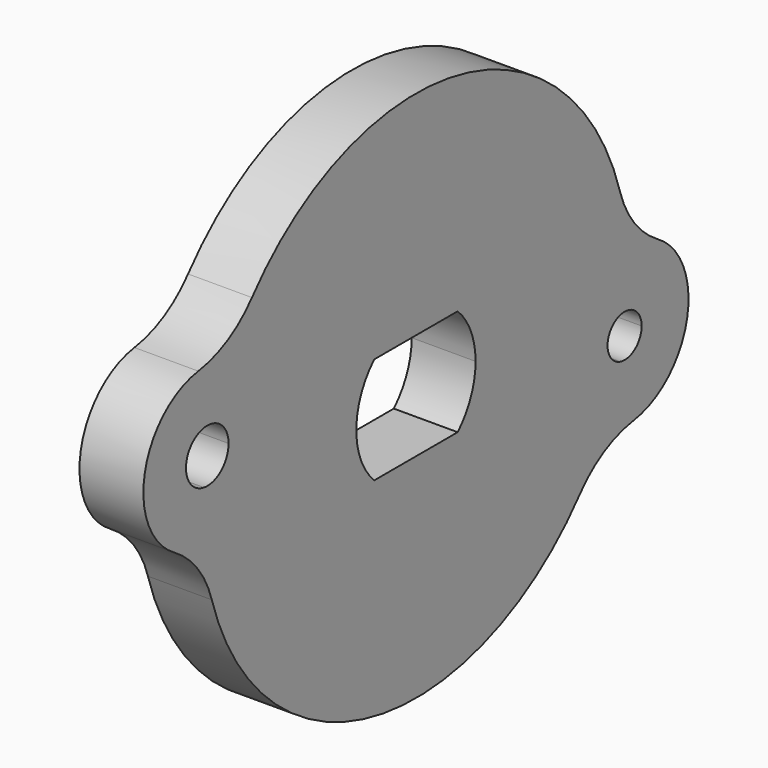
from build123d import *

# Parameters (mm, degrees)
F1_DEPTH = 6
F2_R     = 10


with BuildPart() as f1:
    # F0 (on Right) → F1 (new body)
    with BuildSketch(Plane.YZ):
        with BuildLine():
            ThreePointArc((21.9095980486, -12.040328623), (17.1464281995, -3.5), (24.8756560386, 2.490328623))
            ThreePointArc((24.8756560386, 2.490328623), (5, 24.4948974278), (-21.9095980486, 12.040328623))
            ThreePointArc((-21.9095980486, 12.040328623), (-18.3451110354, 9.2930324163), (-16.9948974278, 5))
            ThreePointArc((-16.9948974278, 5), (-19.3279684357, -0.4362528262), (-24.8756560386, -2.490328623))
            ThreePointArc((-24.8756560386, -2.490328623), (-5, -24.4948974278), (21.9095980486, -12.040328623))
        make_face()
        with BuildLine():
            ThreePointArc((4.8989794856, 5), (6.4534043883, 2.7117470016), (7, 0))
            ThreePointArc((7, 0), (6.4534043883, -2.7117470016), (4.8989794856, -5))
            ThreePointArc((4.8989794856, -5), (0, -7), (-4.8989794856, -5))
            ThreePointArc((-4.8989794856, -5), (-7, 0), (-4.8989794856, 5))
            ThreePointArc((-4.8989794856, 5), (0, 7), (4.8989794856, 5))
        make_face(mode=Mode.SUBTRACT)
        with BuildLine():
            ThreePointArc((-16.9948974278, 5), (-18.3451110354, 9.2930324163), (-21.9095980486, 12.040328623))
            ThreePointArc((-21.9095980486, 12.040328623), (-23.007525787, 9.7802738796), (-23.8730483318, 7.4214259645))
            ThreePointArc((-23.8730483318, 7.4214259645), (-22.5194705448, 6.5322169004), (-21.9948974278, 5))
            ThreePointArc((-21.9948974278, 5), (-22.8658256529, 3.1036547909), (-24.8717975496, 2.5285740355))
            ThreePointArc((-24.8717975496, 2.5285740355), (-24.999992612, 0.0192197783), (-24.8756560386, -2.490328623))
            ThreePointArc((-24.8756560386, -2.490328623), (-19.3279684357, -0.4362528262), (-16.9948974278, 5))
        make_face()
        with BuildLine():
            ThreePointArc((-23.8730483318, 7.4214259645), (-23.007525787, 9.7802738796), (-21.9095980486, 12.040328623))
            ThreePointArc((-21.9095980486, 12.040328623), (-31.8433666562, 6.5), (-24.8756560386, -2.490328623))
            ThreePointArc((-24.8756560386, -2.490328623), (-24.999992612, 0.0192197783), (-24.8717975496, 2.5285740355))
            ThreePointArc((-24.8717975496, 2.5285740355), (-26.9443871706, 5.5), (-23.8730483318, 7.4214259645))
        make_face()
        with BuildLine():
            ThreePointArc((-4.8989794856, -5), (0, -7), (4.8989794856, -5))
            Line((4.8989794856, -5), (-4.8989794856, -5))
        make_face()
        with BuildLine():
            Line((-4.8989794856, 5), (4.8989794856, 5))
            ThreePointArc((4.8989794856, 5), (0, 7), (-4.8989794856, 5))
        make_face()
        with BuildLine():
            ThreePointArc((24.8756560386, 2.490328623), (24.9688946588, 1.2467154919), (25, 0))
            ThreePointArc((25, 0), (24.9540060982, -1.5157769132), (24.816193628, -3.0259765068))
            ThreePointArc((24.816193628, -3.0259765068), (26.0184774881, -3.7043519769), (26.4948974278, -5))
            ThreePointArc((26.4948974278, -5), (25.7285653152, -6.5741866292), (24.0168338842, -6.9420234932))
            ThreePointArc((24.0168338842, -6.9420234932), (23.1042737674, -9.549478189), (21.9095980486, -12.040328623))
            ThreePointArc((21.9095980486, -12.040328623), (28.7879298442, -11.1497863924), (31.9948974278, -5))
            ThreePointArc((31.9948974278, -5), (29.931150254, 0.1669289921), (24.8756560386, 2.490328623))
        make_face()
        with BuildLine():
            ThreePointArc((24.816193628, -3.0259765068), (24.9540060982, -1.5157769132), (25, 0))
            ThreePointArc((25, 0), (24.9688946588, 1.2467154919), (24.8756560386, 2.490328623))
            ThreePointArc((24.8756560386, 2.490328623), (17.1464281995, -3.5), (21.9095980486, -12.040328623))
            ThreePointArc((21.9095980486, -12.040328623), (23.1042737674, -9.549478189), (24.0168338842, -6.9420234932))
            ThreePointArc((24.0168338842, -6.9420234932), (22.5353056336, -4.6), (24.816193628, -3.0259765068))
        make_face()
    extrude(amount=F1_DEPTH)

    # F2
    f2_edges = [f1.edges().sort_by_distance(p)[0] for p in [
        (3, 24.875656, 2.490329),
        (3, 21.909598, -12.040329),
        (3, -21.909598, 12.040329),
        (3, -24.875656, -2.490329),
    ]]
    fillet(f2_edges, radius=F2_R)


solid = f1.part
